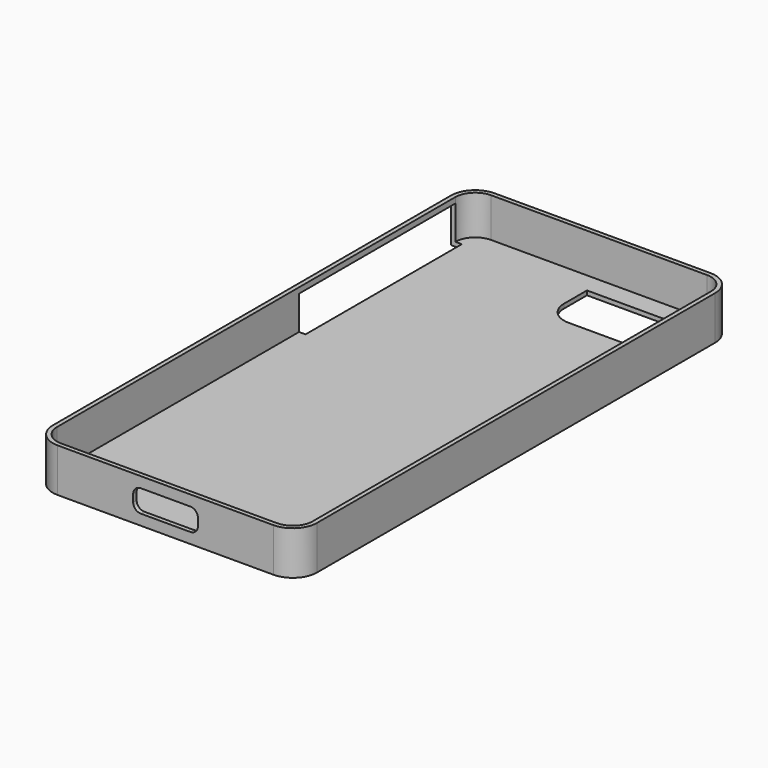
from build123d import *

# Parameters (mm, degrees)
F1_DEPTH = 10.1
F2_T     = -1
F4_DEPTH = 25
F5_W     = 45.166726
F5_H     = 8.800845
F6_DEPTH = 2.5
F8_DEPTH = 2.5


with BuildPart() as f1:
    # F0 (on Top) → F1 (new body)
    with BuildSketch(Plane.XY):
        with BuildLine():
            Line((24.95, 63.15), (-24.95, 63.15))
            ThreePointArc((-24.95, 63.15), (-28.909798, 61.509798), (-30.55, 57.55))
            Line((-30.55, 57.55), (-30.55, -57.55))
            ThreePointArc((-30.55, -57.55), (-28.909798, -61.509798), (-24.95, -63.15))
            Line((-24.95, -63.15), (24.95, -63.15))
            ThreePointArc((24.95, -63.15), (28.909798, -61.509798), (30.55, -57.55))
            Line((30.55, -57.55), (30.55, 57.55))
            ThreePointArc((30.55, 57.55), (28.909798, 61.509798), (24.95, 63.15))
        make_face()
    extrude(amount=F1_DEPTH)

    # F2
    f2_openings = [f1.faces().sort_by_distance(p)[0] for p in [
        (0, 0, 10.1),
    ]]
    offset(amount=F2_T, openings=f2_openings)

    # F3 (on face) → F4 (cut)
    with BuildSketch(Plane(origin=(0, 0, 0), x_dir=(1, 0, 0), z_dir=(0, 0, -1))):
        with BuildLine():
            Line((0.899941, -57.55), (20.95, -57.55))
            ThreePointArc((20.95, -57.55), (23.778427, -56.378427), (24.95, -53.55))
            Line((24.95, -53.55), (24.95, -46.00715))
            ThreePointArc((24.95, -46.00715), (24.832843, -45.724307), (24.55, -45.60715))
            Line((24.55, -45.60715), (6.199941, -45.60715))
            ThreePointArc((6.199941, -45.60715), (2.452275, -47.159484), (0.899941, -50.90715))
            Line((0.899941, -50.90715), (0.899941, -57.55))
        make_face()
    extrude(amount=-F4_DEPTH, mode=Mode.SUBTRACT)

    # F5 (on face) → F6 (cut)
    with BuildSketch(Plane(origin=(-30.55, 0, 0), x_dir=(0, -1, 0), z_dir=(-1, 0, 0))):
        with Locations((-34.966637, 4.400422)):
            Rectangle(F5_W, F5_H)
    extrude(amount=-F6_DEPTH, mode=Mode.SUBTRACT)

    # F7 (on face) → F8 (cut)
    with BuildSketch(Plane.XZ.offset(63.15)):
        with BuildLine():
            Line((5.738557, 7.637859), (-5.738557, 7.637859))
            ThreePointArc((-5.738557, 7.637859), (-6.975994, 7.125296), (-7.488557, 5.887859))
            Line((-7.488557, 5.887859), (-7.488557, 4.212141))
            ThreePointArc((-7.488557, 4.212141), (-6.975994, 2.974704), (-5.738557, 2.462141))
            Line((-5.738557, 2.462141), (5.738557, 2.462141))
            ThreePointArc((5.738557, 2.462141), (6.975994, 2.974704), (7.488557, 4.212141))
            Line((7.488557, 4.212141), (7.488557, 5.887859))
            ThreePointArc((7.488557, 5.887859), (6.975994, 7.125296), (5.738557, 7.637859))
        make_face()
    extrude(amount=-F8_DEPTH, mode=Mode.SUBTRACT)


solid = f1.part
